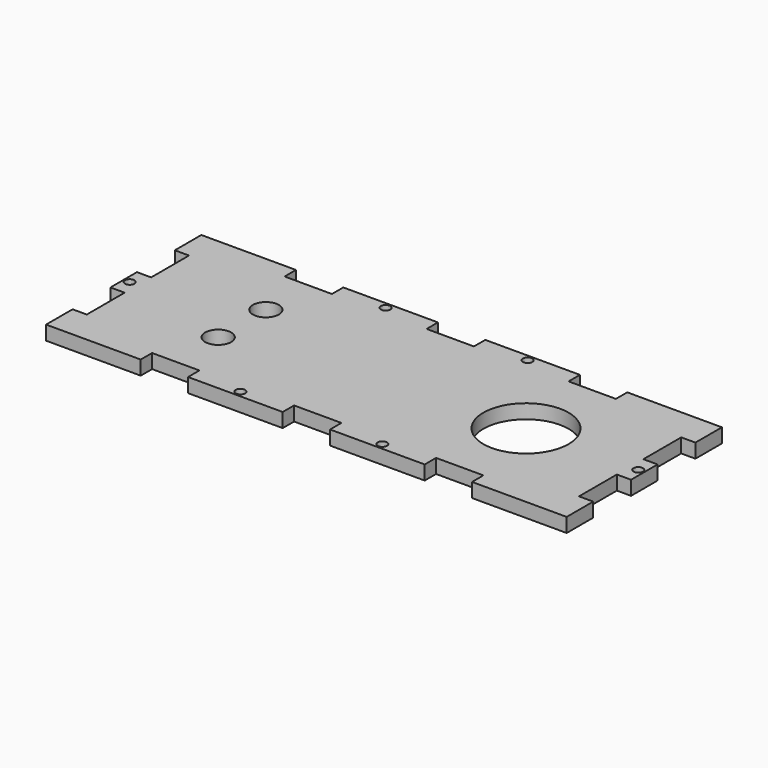
from build123d import *

# Parameters (mm, degrees)
F0_R     = 1
F0_R_2   = 2.75
F0_R_3   = 9
F1_DEPTH = 3


with BuildPart() as f1:
    # F0 (on Top) → F1 (new body)
    with BuildSketch(Plane.XY):
        Polygon((-48.750097, -4.500844), (-48.750097, -11.500844), (-28.750097, -11.500844), (-28.750097, -8.500844), (-18.750097, -8.500844), (-18.750097, -11.500844), (1.249903, -11.500844), (1.249903, -8.500844), (6.249903, -8.500844), (11.249903, -8.500844), (11.249903, -11.500844), (31.249903, -11.500844), (31.249903, -8.500844), (41.249903, -8.500844), (41.249903, -11.500844), (61.249903, -11.500844), (61.249903, -4.500844), (58.249903, -4.500844), (58.249903, 5.499156), (61.249903, 5.499156), (61.249903, 12.499156), (58.249903, 12.499156), (58.249903, 22.499156), (61.249903, 22.499156), (61.249903, 29.499156), (41.249903, 29.499156), (41.249903, 26.499156), (31.249903, 26.499156), (31.249903, 29.499156), (11.249903, 29.499156), (11.249903, 26.499156), (6.249903, 26.499156), (1.249903, 26.499156), (1.249903, 29.499156), (-18.750097, 29.499156), (-18.750097, 26.499156), (-28.750097, 26.499156), (-28.750097, 29.499156), (-48.750097, 29.499156), (-48.750097, 22.499156), (-45.750097, 22.499156), (-45.750097, 12.499156), (-48.750097, 12.499156), (-48.750097, 5.499156), (-45.750097, 5.499156), (-45.750097, -4.500844), align=None)
        with Locations((-8.750097, -10.18188)):
            Circle(F0_R, mode=Mode.SUBTRACT)
        with Locations((-23.750097, 2.70259)):
            Circle(F0_R_2, mode=Mode.SUBTRACT)
        with Locations((21.249903, -10.18188)):
            Circle(F0_R, mode=Mode.SUBTRACT)
        with Locations((-47.479144, 8.999156)):
            Circle(F0_R, mode=Mode.SUBTRACT)
        with Locations((-23.750097, 15.295722)):
            Circle(F0_R_2, mode=Mode.SUBTRACT)
        with Locations((-8.750097, 28.180192)):
            Circle(F0_R, mode=Mode.SUBTRACT)
        with Locations((36.249903, 8.999156)):
            Circle(F0_R_3, mode=Mode.SUBTRACT)
        with Locations((59.97895, 8.999156)):
            Circle(F0_R, mode=Mode.SUBTRACT)
        with Locations((21.249903, 28.180192)):
            Circle(F0_R, mode=Mode.SUBTRACT)
    extrude(amount=F1_DEPTH)


solid = f1.part
